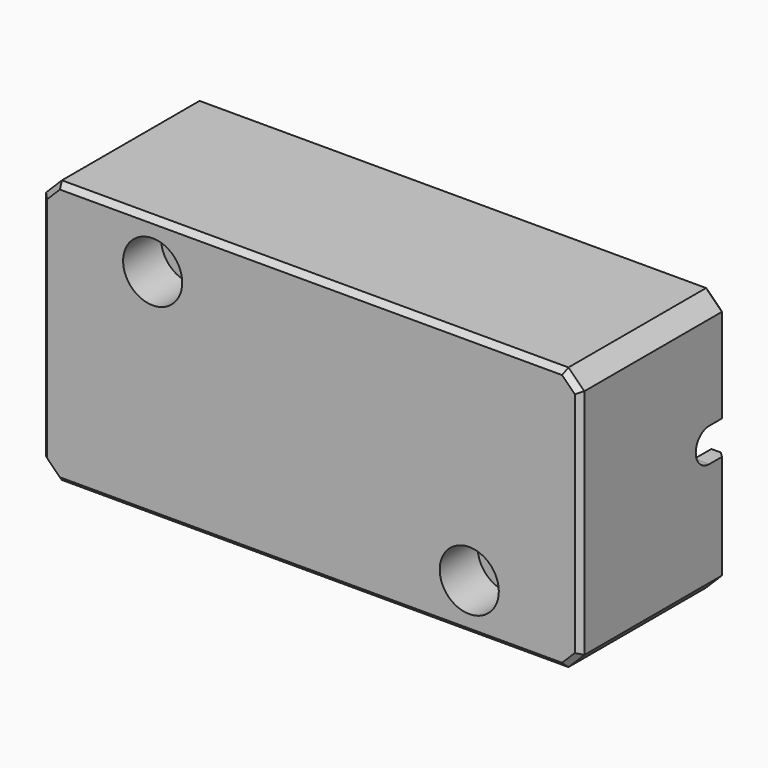
from build123d import *

# Parameters (mm, degrees)
SKETCH012_W     = 51
SKETCH012_H     = 25
PAD004_DEPTH    = 17.3
SKETCH013_W     = 48.2
SKETCH013_H     = 22.2
POCKET007_DEPTH = 15.9
PAD005_DEPTH    = 11
PAD006_DEPTH    = 11
SKETCH016_R     = 1.7
POCKET008_DEPTH = 12.401
SKETCH017_R     = 1.7
POCKET009_DEPTH = 12.401
PAD007_DEPTH    = 4.2
PAD008_DEPTH    = 4.2
SKETCH021_R     = 2.8
POCKET010_DEPTH = 4.5
SKETCH022_R     = 2.8
POCKET011_DEPTH = 4.5
CHAMFER002_SIZE = 1.24
SKETCH023_R     = 1.7
PAD009_DEPTH    = 0.2
SKETCH024_R     = 1.7
PAD010_DEPTH    = 0.2
POCKET012_DEPTH = 51.001
CHAMFER003_SIZE = 1.5
CHAMFER004_SIZE = 0.5
CHAMFER005_SIZE = 0.5


with BuildPart() as part:
    # Sketch012 → Pad004 (new body)
    with BuildSketch(Plane.XZ):
        with Locations((0, -5.002716)):
            Rectangle(SKETCH012_W, SKETCH012_H)
    extrude(amount=PAD004_DEPTH)

    # Sketch013 (on Face5 of Pad004) → Pocket007 (cut)
    with BuildSketch(Plane(origin=(0, 0, 0), x_dir=(1, 0, 0), z_dir=(0, 1, 0))):
        with Locations((0, 5.002716)):
            Rectangle(SKETCH013_W, SKETCH013_H)
    extrude(amount=-POCKET007_DEPTH, mode=Mode.SUBTRACT)

    # Sketch014 (on Face11 of Pocket007) → Pad005 (join)
    with BuildSketch(Plane(origin=(0, -15.9, 0), x_dir=(1, 0, 0), z_dir=(0, 1, 0))):
        with BuildLine():
            ThreePointArc((12.25, 13.002716), (15, 10.252716), (17.75, 13.002716))
            Line((17.75, 13.002716), (17.75, 16.102716))
            Line((17.75, 16.102716), (12.25, 16.102716))
            Line((12.25, 16.102716), (12.25, 13.002716))
        make_face()
    extrude(amount=PAD005_DEPTH)

    # Sketch015 (on Face11 of Pad005) → Pad006 (join)
    with BuildSketch(Plane(origin=(0, -15.9, 0), x_dir=(1, 0, 0), z_dir=(0, 1, 0))):
        with BuildLine():
            ThreePointArc((-12.25, -2.997284), (-15, -0.247284), (-17.75, -2.997284))
            Line((-17.75, -6.097284), (-17.75, -2.997284))
            Line((-12.25, -6.097284), (-17.75, -6.097284))
            Line((-12.25, -2.997284), (-12.25, -6.097284))
        make_face()
    extrude(amount=PAD006_DEPTH)

    # Sketch016 (on Face13 of Pad006) → Pocket008 (cut, through all)
    with BuildSketch(Plane(origin=(0, -4.9, 0), x_dir=(1, 0, 0), z_dir=(0, 1, 0))):
        with Locations((15, 13.002716)):
            Circle(SKETCH016_R)
    extrude(amount=-POCKET008_DEPTH, mode=Mode.SUBTRACT)

    # Sketch017 (on Face14 of Pocket008) → Pocket009 (cut, through all)
    with BuildSketch(Plane(origin=(0, -4.9, 0), x_dir=(1, 0, 0), z_dir=(0, 1, 0))):
        with Locations((-15, -2.997284)):
            Circle(SKETCH017_R)
    extrude(amount=-POCKET009_DEPTH, mode=Mode.SUBTRACT)

    # Sketch019 (on Face13 of Pocket009) → Pad007 (join)
    with BuildSketch(Plane(origin=(0, -15.9, 0), x_dir=(1, 0, 0), z_dir=(0, 1, 0))):
        with BuildLine():
            ThreePointArc((-12.25, -2.997284), (-15, -0.247284), (-17.75, -2.997284))
            Line((-17.75, -6.097284), (-17.75, -2.997284))
            Line((-19, -6.097284), (-17.75, -6.097284))
            Line((-19, -6.097284), (-19, -2.997284))
            ThreePointArc((-11, -2.997284), (-15, 1.002716), (-19, -2.997284))
            Line((-11, -2.997284), (-11, -6.097284))
            Line((-12.25, -6.097284), (-11, -6.097284))
            Line((-12.25, -2.997284), (-12.25, -6.097284))
        make_face()
    extrude(amount=PAD007_DEPTH)

    # Sketch020 (on Face13 of Pad007) → Pad008 (join)
    with BuildSketch(Plane(origin=(0, -15.9, 0), x_dir=(1, 0, 0), z_dir=(0, 1, 0))):
        with BuildLine():
            ThreePointArc((12.25, 13.002716), (15, 10.252716), (17.75, 13.002716))
            Line((17.75, 13.002716), (17.75, 16.102716))
            Line((17.75, 16.102716), (19, 16.102716))
            Line((19, 13.002716), (19, 16.102716))
            ThreePointArc((11, 13.002716), (15, 9.002716), (19, 13.002716))
            Line((11, 16.102716), (11, 13.002716))
            Line((11, 16.102716), (12.25, 16.102716))
            Line((12.25, 16.102716), (12.25, 13.002716))
        make_face()
    extrude(amount=PAD008_DEPTH)

    # Sketch021 (on Face5 of Pad008) → Pocket010 (cut)
    with BuildSketch(Plane.XZ.offset(17.3)):
        with Locations((-15, 2.997284)):
            Circle(SKETCH021_R)
    extrude(amount=-POCKET010_DEPTH, mode=Mode.SUBTRACT)

    # Sketch022 (on Face5 of Pocket010) → Pocket011 (cut)
    with BuildSketch(Plane.XZ.offset(17.3)):
        with Locations((15, -13.002716)):
            Circle(SKETCH022_R)
    extrude(amount=-POCKET011_DEPTH, mode=Mode.SUBTRACT)

    # Chamfer002
    chamfer002_edges = [part.edges().sort_by_distance(p)[0] for p in [
        (-12.25, -11.7, 4.547284),
        (-15, -11.7, 0.247284),
        (-17.75, -11.7, 4.547284),
        (12.25, -11.7, -14.552716),
        (15, -11.7, -10.252716),
        (17.75, -11.7, -14.552716),
    ]]
    chamfer(chamfer002_edges, length=CHAMFER002_SIZE)

    # Sketch023 (on Face39 of Chamfer002) → Pad009 (join)
    with BuildSketch(Plane.XZ.offset(12.8)):
        with Locations((-15, 2.997284)):
            Circle(SKETCH023_R)
    extrude(amount=-PAD009_DEPTH)

    # Sketch024 (on Face39 of Pad009) → Pad010 (join)
    with BuildSketch(Plane.XZ.offset(12.8)):
        with Locations((15, -13.002716)):
            Circle(SKETCH024_R)
    extrude(amount=-PAD010_DEPTH)

    # Sketch025 (on Face24 of Pad010) → Pocket012 (cut, through all)
    with BuildSketch(Plane(origin=(25.5, 0, 0), x_dir=(0, 0, 1), z_dir=(1, 0, 0))):
        with BuildLine():
            ThreePointArc((-2.9, 2), (-4.5, 3.6), (-6.1, 2))
            Line((-6.1, 0), (-6.1, 2))
            Line((-2.9, 0), (-6.1, 0))
            Line((-2.9, 2), (-2.9, 0))
        make_face()
    extrude(amount=-POCKET012_DEPTH, mode=Mode.SUBTRACT)

    # Chamfer003
    chamfer003_edges = [part.edges().sort_by_distance(p)[0] for p in [
        (24.1, -7.95, 6.097284),
        (-24.1, -7.95, 6.097284),
        (-24.1, -7.95, -16.102716),
        (24.1, -7.95, -16.102716),
        (-25.5, -8.65, 7.497284),
        (25.5, -8.65, 7.497284),
        (-25.5, -8.65, -17.502716),
        (25.5, -8.65, -17.502716),
    ]]
    chamfer(chamfer003_edges, length=CHAMFER003_SIZE)

    # Chamfer004
    chamfer004_edges = [part.edges().sort_by_distance(p)[0] for p in [
        (0, -17.3, 7.497284),
        (-24.75, -17.3, 6.747284),
        (-25.5, -17.3, -5.002716),
        (-24.75, -17.3, -16.752716),
        (0, -17.3, -17.502716),
        (24.75, -17.3, -16.752716),
        (25.5, -17.3, -5.002716),
        (24.75, -17.3, 6.747284),
    ]]
    chamfer(chamfer004_edges, length=CHAMFER004_SIZE)

    # Chamfer005
    chamfer005_edges = [part.edges().sort_by_distance(p)[0] for p in [
        (25.5, 0, 1.548642),
        (24.75, 0, 6.747284),
        (0, 0, 7.497284),
        (-24.75, 0, 6.747284),
        (-25.5, 0, 1.548642),
        (-25.5, 0, -11.051358),
        (-24.75, 0, -16.752716),
        (0, 0, -17.502716),
        (24.75, 0, -16.752716),
        (25.5, 0, -11.051358),
    ]]
    chamfer(chamfer005_edges, length=CHAMFER005_SIZE)


with BuildPart() as part_1:
    # Body003 placement: moved
    add(part.part.moved(Location((0, -16.5, 0))))


solid = part_1.part
